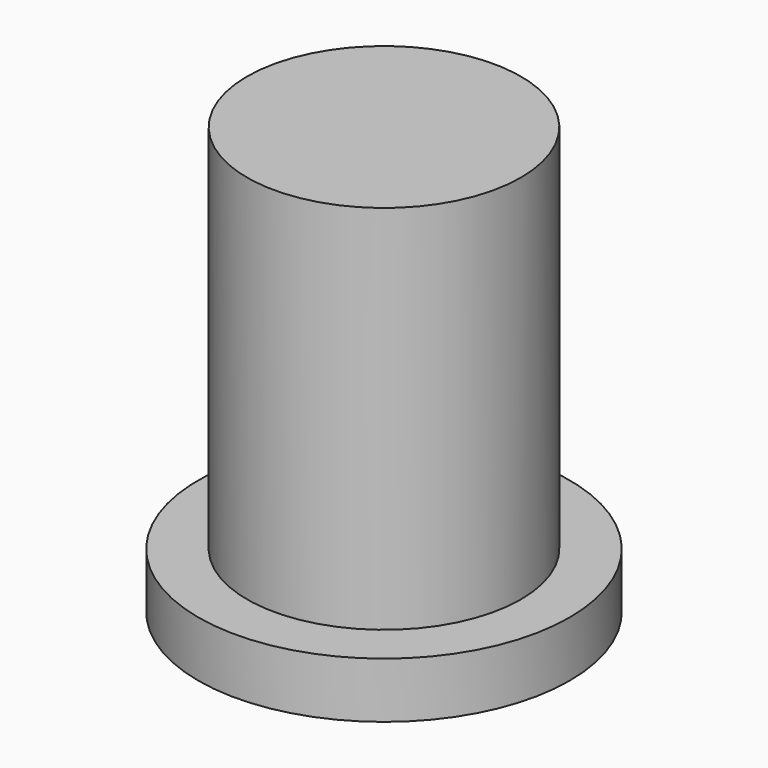
from build123d import *

# Parameters (mm, degrees)
SKETCH020_R     = 4
PAD016_DEPTH    = 1.2
SKETCH021_R     = 2.95
PAD017_DEPTH    = 8
SKETCH022_R     = 2.5
POCKET004_DEPTH = 1


with BuildPart() as part:
    # Sketch020 → Pad016 (new body)
    with BuildSketch(Plane.XY):
        Circle(SKETCH020_R)
    extrude(amount=PAD016_DEPTH)

    # Sketch021 → Pad017 (new body)
    with BuildSketch(Plane.XY.offset(1.2)):
        Circle(SKETCH021_R)
    extrude(amount=PAD017_DEPTH)

    # Sketch022 → Pocket004 (cut)
    with BuildSketch(Plane(origin=(0, 0, 0), x_dir=(1, 0, 0), z_dir=(0, 0, -1))):
        Circle(SKETCH022_R)
    extrude(amount=-POCKET004_DEPTH, mode=Mode.SUBTRACT)


solid = part.part
